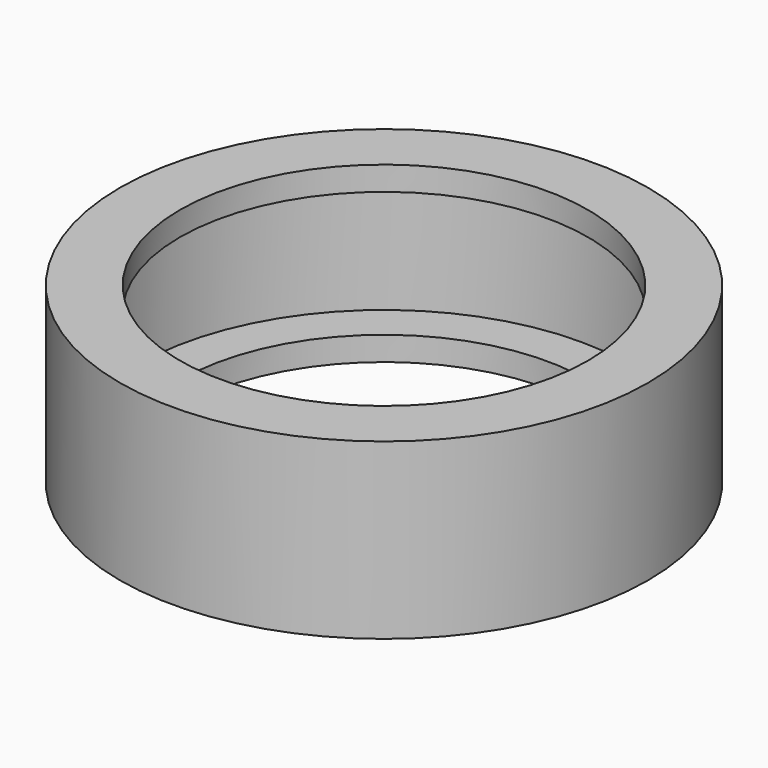
from build123d import *

# Parameters (mm, degrees)
F2_R     = 11
F2_R_2   = 8.5
F4_DEPTH = 0.5
F0_R     = 11
F0_R_2   = 8.5
F5_R     = 11
F5_R_2   = 10.25
F6_DEPTH = 2.6364565


with BuildPart() as f4:
    # F2 (on offset) → F4 (new body, symmetric)
    with BuildSketch(Plane.XY.offset(6.24)):
        Circle(F2_R)
        Circle(F2_R_2, mode=Mode.SUBTRACT)
    extrude(amount=F4_DEPTH, both=True)



with BuildPart() as f4b:
    # F0 (on Top) → F4, piece 2 (new body, symmetric)
    with BuildSketch(Plane.XY):
        Circle(F0_R)
        Circle(F0_R_2, mode=Mode.SUBTRACT)
    extrude(amount=F4_DEPTH, both=True)


with BuildPart() as f4_1:
    add(f4.part)

    add(f4b.part)  # F6 merges F4b
    # F5 (on offset) → F6 (join, symmetric)
    with BuildSketch(Plane.XY.offset(3.1183971)):
        Circle(F5_R)
        Circle(F5_R_2, mode=Mode.SUBTRACT)
    extrude(amount=F6_DEPTH, both=True)


solid = f4_1.part
